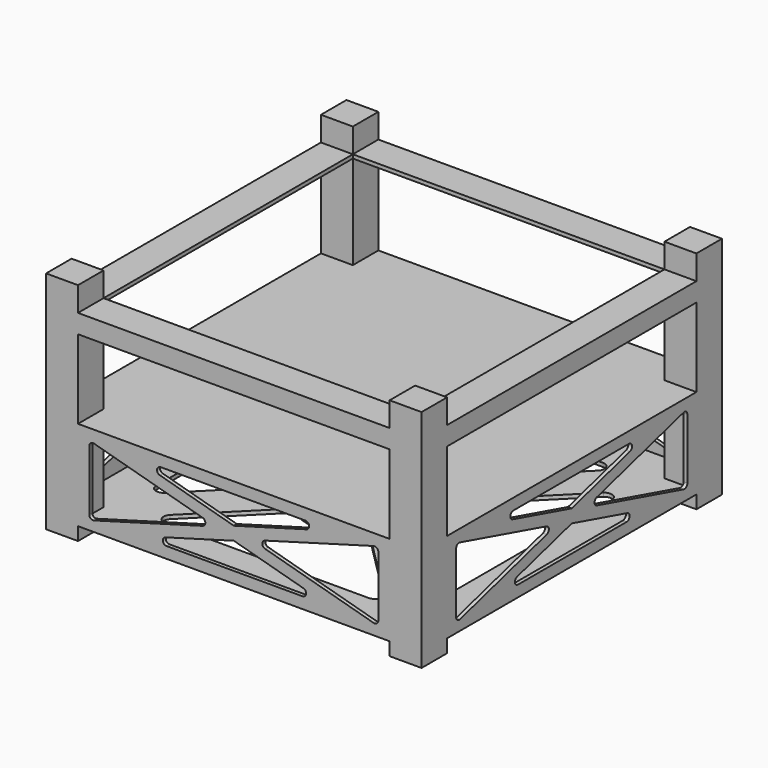
from build123d import *

# Parameters (mm, degrees)
F0_W      = 8.5
F0_H      = 8.5
F1_DEPTH  = 60
F3_DEPTH  = 83
F5_COUNT  = 4
F8_R      = 10
F9_DEPTH  = 1
F12_DEPTH = 1
F13_W     = 83
F13_H     = 22
F14_DEPTH = 1
F15_COUNT = 4


with BuildPart() as f1:
    # F0 (on Top) → F1 (new body)
    with BuildSketch(Plane.XY):
        with Locations((-45.75, -45.75)):
            Rectangle(F0_W, F0_H)
    extrude(amount=F1_DEPTH)

    # F2 (on face) → F3 (join)
    with BuildSketch(Plane.YZ.offset(-41.5)):
        Polygon((-50, 53.5), (-50, 48.5), (-49, 48.5), (-49, 52.5), (-41.5, 52.5), (-41.5, 53.5), align=None)
    extrude(amount=F3_DEPTH)

    # F5: F1 ×4 about axis
    f5_axis = Axis((0, 0, 7.5635649264), (0, 0, -1))


with BuildPart() as f1_1:
    add(f1.part)
    for i in range(1, F5_COUNT):
        add(f1.part.rotate(f5_axis, i * 360 / F5_COUNT))

    # F6: union 

    # F8 (on offset) → F9 (join)
    with BuildSketch(Plane.XY.offset(3.5)):
        Polygon((-41.5, 41.5), (-50, 41.5), (-50, -41.5), (-41.5, -41.5), (-41.5, -50), (41.5, -50), (41.5, -41.5), (50, -41.5), (50, 41.5), (41.5, 41.5), (41.5, 50), (-41.5, 50), align=None)
        with BuildLine():
            ThreePointArc((-18.2834151097, 11.2123472978), (-17.7237848536, 10.1205319062), (-17.9069351564, 8.907394305))
            ThreePointArc((-17.9069351564, 8.907394305), (-20, 0), (-17.9069351564, -8.907394305))
            ThreePointArc((-17.9069351564, -8.907394305), (-17.7237848536, -10.1205319062), (-18.2834151097, -11.2123472978))
            Line((-18.2834151097, -11.2123472978), (-35.5857864376, -28.5147186258))
            ThreePointArc((-35.5857864376, -28.5147186258), (-37.7653668647, -28.9482641284), (-39, -27.1005050634))
            Line((-39, -27.1005050634), (-39, 27.1005050634))
            ThreePointArc((-39, 27.1005050634), (-37.7653668647, 28.9482641284), (-35.5857864376, 28.5147186258))
            Line((-35.5857864376, 28.5147186258), (-18.2834151097, 11.2123472978))
        make_face(mode=Mode.SUBTRACT)
        with BuildLine():
            Line((27.1005050634, -39), (-27.1005050634, -39))
            ThreePointArc((-27.1005050634, -39), (-28.9482641284, -37.7653668647), (-28.5147186258, -35.5857864376))
            Line((-28.5147186258, -35.5857864376), (-11.2123472978, -18.2834151097))
            ThreePointArc((-11.2123472978, -18.2834151097), (-10.1205319062, -17.7237848536), (-8.907394305, -17.9069351564))
            ThreePointArc((-8.907394305, -17.9069351564), (0, -20), (8.907394305, -17.9069351564))
            ThreePointArc((8.907394305, -17.9069351564), (10.1205319062, -17.7237848536), (11.2123472978, -18.2834151097))
            Line((11.2123472978, -18.2834151097), (28.5147186258, -35.5857864376))
            ThreePointArc((28.5147186258, -35.5857864376), (28.9482641284, -37.7653668647), (27.1005050634, -39))
        make_face(mode=Mode.SUBTRACT)
        with BuildLine():
            Line((39, 27.1005050634), (39, -27.1005050634))
            ThreePointArc((39, -27.1005050634), (37.7653668647, -28.9482641284), (35.5857864376, -28.5147186258))
            Line((35.5857864376, -28.5147186258), (18.2834151097, -11.2123472978))
            ThreePointArc((18.2834151097, -11.2123472978), (17.7237848536, -10.1205319062), (17.9069351564, -8.907394305))
            ThreePointArc((17.9069351564, -8.907394305), (20, 0), (17.9069351564, 8.907394305))
            ThreePointArc((17.9069351564, 8.907394305), (17.7237848536, 10.1205319062), (18.2834151097, 11.2123472978))
            Line((18.2834151097, 11.2123472978), (35.5857864376, 28.5147186258))
            ThreePointArc((35.5857864376, 28.5147186258), (37.7653668647, 28.9482641284), (39, 27.1005050634))
        make_face(mode=Mode.SUBTRACT)
        Circle(F8_R, mode=Mode.SUBTRACT)
        with BuildLine():
            Line((-27.1005050634, 39), (27.1005050634, 39))
            ThreePointArc((27.1005050634, 39), (28.9482641284, 37.7653668647), (28.5147186258, 35.5857864376))
            Line((28.5147186258, 35.5857864376), (11.2123472978, 18.2834151097))
            ThreePointArc((11.2123472978, 18.2834151097), (10.1205319062, 17.7237848536), (8.907394305, 17.9069351564))
            ThreePointArc((8.907394305, 17.9069351564), (0, 20), (-8.907394305, 17.9069351564))
            ThreePointArc((-8.907394305, 17.9069351564), (-10.1205319062, 17.7237848536), (-11.2123472978, 18.2834151097))
            Line((-11.2123472978, 18.2834151097), (-28.5147186258, 35.5857864376))
            ThreePointArc((-28.5147186258, 35.5857864376), (-28.9482641284, 37.7653668647), (-27.1005050634, 39))
        make_face(mode=Mode.SUBTRACT)
    extrude(amount=F9_DEPTH)

    # F11 (on offset) → F12 (join)
    with BuildSketch(Plane.XY.offset(26.5)):
        Polygon((-41.5, 41.5), (-50, 41.5), (-50, -41.5), (-41.5, -41.5), (-41.5, -50), (41.5, -50), (41.5, -41.5), (50, -41.5), (50, 41.5), (41.5, 41.5), (41.5, 50), (-41.5, 50), align=None)
    extrude(amount=F12_DEPTH)

    # F13 (on face) → F14 (join)
    with BuildSketch(Plane.XZ.offset(50)):
        with Locations((0, 15.5)):
            Rectangle(F13_W, F13_H)
        with BuildLine():
            Line((-38.5, 7.188657922), (-38.5, 23.2876615651))
            ThreePointArc((-38.5, 23.2876615651), (-38.1058840758, 24.0832145091), (-37.2341910266, 24.2516872856))
            Line((-37.2341910266, 24.2516872856), (-8.3239632204, 16.2803253088))
            ThreePointArc((-8.3239632204, 16.2803253088), (-7.5897753398, 15.3188079665), (-8.3191302984, 14.3536194937))
            Line((-8.3191302984, 14.3536194937), (-37.2293581047, 6.2259778274))
            ThreePointArc((-37.2293581047, 6.2259778274), (-38.1038866221, 6.3915876944), (-38.5, 7.188657922))
        make_face(mode=Mode.SUBTRACT)
        with BuildLine():
            Line((-18.1885930238, 8.4626800946), (0, 13.576108031))
            Line((0, 13.576108031), (18.5403027226, 8.4640257204))
            ThreePointArc((18.5403027226, 8.4640257204), (19.2654593694, 7.3658838571), (18.2744937493, 6.5))
            Line((18.2744937493, 6.5), (-17.9179511285, 6.5))
            ThreePointArc((-17.9179511285, 6.5), (-18.908577217, 7.3633985626), (-18.1885930238, 8.4626800946))
        make_face(mode=Mode.SUBTRACT)
        with BuildLine():
            Line((8.3191302984, 16.3196135075), (37.2293581047, 24.4472551738))
            ThreePointArc((37.2293581047, 24.4472551738), (38.1038866221, 24.2816453068), (38.5, 23.4845750792))
            Line((38.5, 23.4845750792), (38.5, 7.3855714361))
            ThreePointArc((38.5, 7.3855714361), (38.1058840758, 6.5900184921), (37.2341910266, 6.4215457157))
            Line((37.2341910266, 6.4215457157), (8.3239632204, 14.3929076925))
            ThreePointArc((8.3239632204, 14.3929076925), (7.5897753398, 15.3544250348), (8.3191302984, 16.3196135075))
        make_face(mode=Mode.SUBTRACT)
        with BuildLine():
            ThreePointArc((-19.7254086558, 22.5359742796), (-20.4505653025, 23.6341161429), (-19.4595996824, 24.5))
            Line((-19.4595996824, 24.5), (19.0802696413, 24.5))
            ThreePointArc((19.0802696413, 24.5), (20.0708957298, 23.6366014374), (19.3509115366, 22.5373199054))
            Line((19.3509115366, 22.5373199054), (0, 17.0971249702))
            Line((0, 17.0971249702), (-19.7254086558, 22.5359742796))
        make_face(mode=Mode.SUBTRACT)
    extrude(amount=-F14_DEPTH)

    # F15: F1 ×4 about axis
    f15_axis = Axis((0, 0, 7.5635649264), (0, 0, -1))


with BuildPart() as f1_2:
    add(f1_1.part)
    for i in range(1, F15_COUNT):
        add(f1_1.part.rotate(f15_axis, i * 360 / F15_COUNT))


solid = f1_2.part
